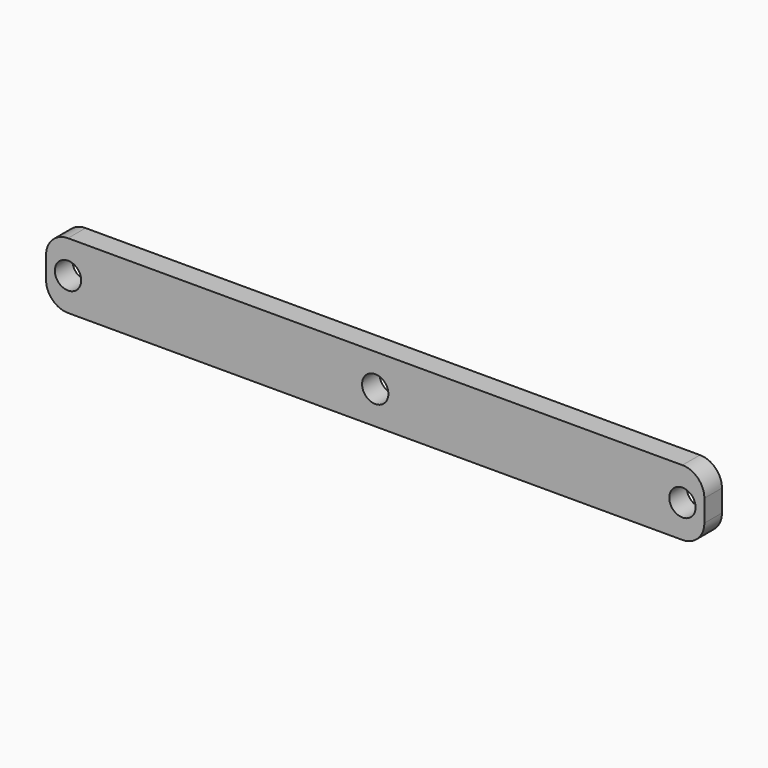
from build123d import *

# Parameters (mm, degrees)
F0_W     = 1500
F0_H     = 150
F0_R     = 30
F1_DEPTH = 50
F2_R     = 50


with BuildPart() as f1:
    # F0 (on Front) → F1 (new body)
    with BuildSketch(Plane.XZ):
        with Locations((275.430977, 356.40495)):
            Rectangle(F0_W, F0_H)
        with Locations((-424.569023, 356.40495)):
            Circle(F0_R, mode=Mode.SUBTRACT)
        with Locations((275.430977, 356.40495)):
            Circle(F0_R, mode=Mode.SUBTRACT)
        with Locations((975.430977, 356.40495)):
            Circle(F0_R, mode=Mode.SUBTRACT)
    extrude(amount=F1_DEPTH)

    # F2
    f2_edges = [f1.edges().sort_by_distance(p)[0] for p in [
        (-474.569023, -25, 431.40495),
        (-474.569023, -25, 281.40495),
        (1025.430977, -25, 431.40495),
        (1025.430977, -25, 281.40495),
    ]]
    fillet(f2_edges, radius=F2_R)


solid = f1.part
